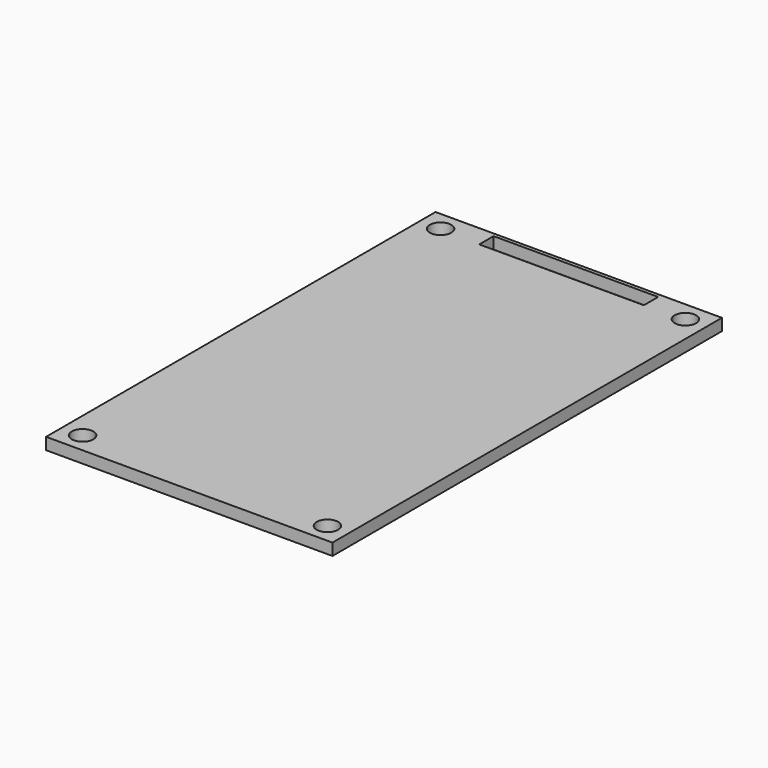
from build123d import *

# Parameters (mm, degrees)
SKETCH_W   = 40
SKETCH_H   = 68
SKETCH_R   = 1.5
SKETCH_W_2 = 23
SKETCH_H_2 = 2.5
PAD_DEPTH  = 0.825


with BuildPart() as part:
    # Sketch → Pad (new body, symmetric)
    with BuildSketch(Plane.XY):
        Rectangle(SKETCH_W, SKETCH_H)
        with Locations((-17.1, 31.25)):
            Circle(SKETCH_R, mode=Mode.SUBTRACT)
        with Locations((17.1, 31.25)):
            Circle(SKETCH_R, mode=Mode.SUBTRACT)
        with Locations((-17.1, -31.25)):
            Circle(SKETCH_R, mode=Mode.SUBTRACT)
        with Locations((17.1, -31.25)):
            Circle(SKETCH_R, mode=Mode.SUBTRACT)
        with Locations((0, 32.25)):
            Rectangle(SKETCH_W_2, SKETCH_H_2, mode=Mode.SUBTRACT)
    extrude(amount=PAD_DEPTH, both=True)


solid = part.part
